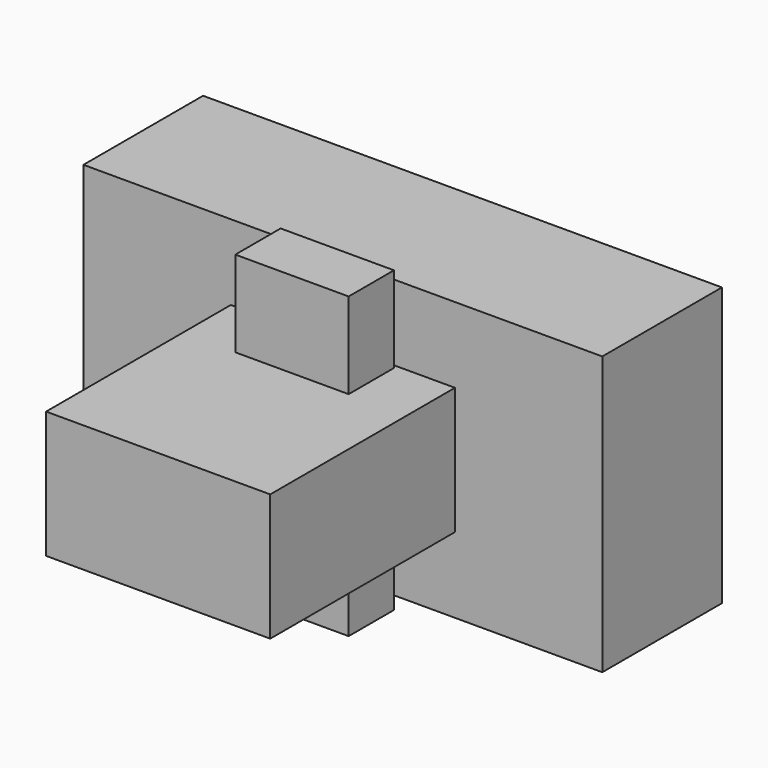
from build123d import *

# Parameters (mm, degrees)
F0_W     = 86.74343
F0_H     = 46.480264
F1_DEPTH = 25
F2_W     = 37.476842
F2_H     = 21.239644
F3_DEPTH = 63.6
F4_W     = 18.94737
F4_H     = 9.473686
F5_DEPTH = 25
F6_DEPTH = 25


with BuildPart() as f1:
    # F0 (on Front) → F1 (new body)
    with BuildSketch(Plane.XZ):
        Rectangle(F0_W, F0_H)
    extrude(amount=F1_DEPTH)

    # F2 (on Front) → F3 (join)
    with BuildSketch(Plane.XZ):
        Rectangle(F2_W, F2_H)
    extrude(amount=F3_DEPTH)

    # F4 (on Top) → F5 (join)
    with BuildSketch(Plane.XY):
        with Locations((-0.444079, -30.345397)):
            Rectangle(F4_W, F4_H)
    extrude(amount=-F5_DEPTH)

    # F4 (on Top) → F6 (join)
    with BuildSketch(Plane.XY):
        with Locations((-0.444079, -30.345397)):
            Rectangle(F4_W, F4_H)
    extrude(amount=F6_DEPTH)


solid = f1.part
